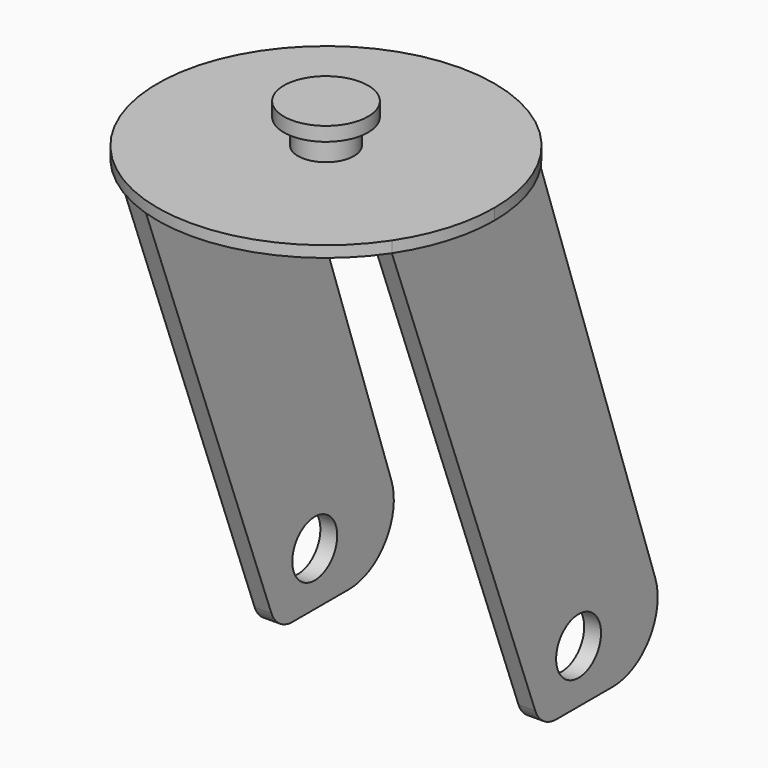
from build123d import *

# Parameters (mm, degrees)
F0_R      = 7.5
F0_R_2    = 5
F1_DEPTH  = 2.5
F2_DEPTH  = 7
F3_R      = 5
F4_DEPTH  = 2
F5_DEPTH  = 90
F7_DEPTH  = 3
F6_R      = 5
F8_DEPTH  = 3
F10_DEPTH = 3
F9_R      = 5
F11_DEPTH = 3
F12_R     = 10
F13_R     = 5
F14_R     = 5


with BuildPart() as f1:
    # F0 (on Top) → F1 (new body)
    with BuildSketch(Plane.XY):
        Circle(F0_R)
        Circle(F0_R_2, mode=Mode.SUBTRACT)
    extrude(amount=-F1_DEPTH)

    # F0 (on Top) → F2 (join)
    with BuildSketch(Plane.XY):
        Circle(F0_R_2)
    extrude(amount=-F2_DEPTH)

    # F3 (on face) → F4 (join)
    with BuildSketch(Plane(origin=(0, 0, -7), x_dir=(1, 0, 0), z_dir=(0, 0, -1))):
        with BuildLine():
            Line((22, 16.5828760482), (25, 16.5831239518))
            ThreePointArc((25, 16.5831239518), (0, 30), (-25, 16.5831239518))
            Line((-25, 16.5831239518), (-22, 16.5828760482))
            Line((-22, 16.5828760482), (-22, 0))
            Line((-22, 0), (-22, -16.5831239518))
            Line((-22, -16.5831239518), (-25, -16.5831239518))
            ThreePointArc((-25, -16.5831239518), (0, -30), (25, -16.5831239518))
            Line((25, -16.5831239518), (22, -16.5831239518))
            Line((22, -16.5831239518), (22, 0))
            Line((22, 0), (22, 16.5828760482))
        make_face()
        Circle(F3_R, mode=Mode.SUBTRACT)
        Circle(F3_R)
    extrude(amount=F4_DEPTH)

    # F3 (on face) → F4, piece 2 (join)
    with BuildSketch(Plane(origin=(0, 0, -7), x_dir=(1, 0, 0), z_dir=(0, 0, -1))):
        with BuildLine():
            Line((-25, 0), (-25, 16.5831239518))
            ThreePointArc((-25, 16.5831239518), (-30, 0), (-25, -16.5831239518))
            Line((-25, -16.5831239518), (-25, 0))
        make_face()
    extrude(amount=F4_DEPTH)

    # F3 (on face) → F4, piece 3 (join)
    with BuildSketch(Plane(origin=(0, 0, -7), x_dir=(1, 0, 0), z_dir=(0, 0, -1))):
        with BuildLine():
            ThreePointArc((25, -16.5831239518), (28.7228132327, -8.6602540378), (30, 0))
            ThreePointArc((30, 0), (28.7228132327, 8.6602540378), (25, 16.5831239518))
            Line((25, 16.5831239518), (25, 0))
            Line((25, 0), (25, -16.5831239518))
        make_face()
    extrude(amount=F4_DEPTH)

    # F3 (on face) → F5 (join)
    with BuildSketch(Plane(origin=(0, 0, -7), x_dir=(1, 0, 0), z_dir=(0, 0, -1))):
        Polygon((-22, 16.5828760482), (-25, 16.5831239518), (-25, 0), (-25, -16.5831239518), (-22, -16.5831239518), (-22, 0), align=None)
        Polygon((25, 0), (25, 16.5831239518), (22, 16.5828760482), (22, 0), (22, -16.5831239518), (25, -16.5831239518), align=None)
    extrude(amount=F5_DEPTH)

    # F6 (on face) → F7 (cut)
    with BuildSketch(Plane.YZ.offset(25)):
        Polygon((16.5831239518, -97), (-16.5831239518, -9), (-16.5831239518, -97), align=None)
    extrude(amount=-F7_DEPTH, mode=Mode.SUBTRACT)

    # F6 (on face) → F8 (join)
    with BuildSketch(Plane.YZ.offset(25)):
        Polygon((16.5831239518, -9), (16.5831239518, -97), (46.5831239518, -97), align=None)
        with Locations((25, -87.5)):
            Circle(F6_R, mode=Mode.SUBTRACT)
    extrude(amount=-F8_DEPTH)

    # F9 (on face) → F10 (cut)
    with BuildSketch(Plane(origin=(-25, 0, 0), x_dir=(0, -1, 0), z_dir=(-1, 0, 0))):
        Polygon((16.5831239518, -97), (16.5831239518, -9), (-16.5831239518, -97), align=None)
    extrude(amount=-F10_DEPTH, mode=Mode.SUBTRACT)

    # F9 (on face) → F11 (join)
    with BuildSketch(Plane(origin=(-25, 0, 0), x_dir=(0, -1, 0), z_dir=(-1, 0, 0))):
        Polygon((-46.5831239518, -97), (-16.5831239518, -97), (-16.5831239518, -9), align=None)
        with Locations((-25, -87.5)):
            Circle(F9_R, mode=Mode.SUBTRACT)
    extrude(amount=-F11_DEPTH)

    # F12
    f12_edges = [f1.edges().sort_by_distance(p)[0] for p in [
        (-23.5, 46.583124, -97),
        (23.5, 46.583124, -97),
    ]]
    fillet(f12_edges, radius=F12_R)

    # F13
    f13_edges = [f1.edges().sort_by_distance(p)[0] for p in [
        (-23.5, 16.583124, -97),
    ]]
    fillet(f13_edges, radius=F13_R)

    # F14
    f14_edges = [f1.edges().sort_by_distance(p)[0] for p in [
        (23.5, 16.583124, -97),
    ]]
    fillet(f14_edges, radius=F14_R)


solid = f1.part
